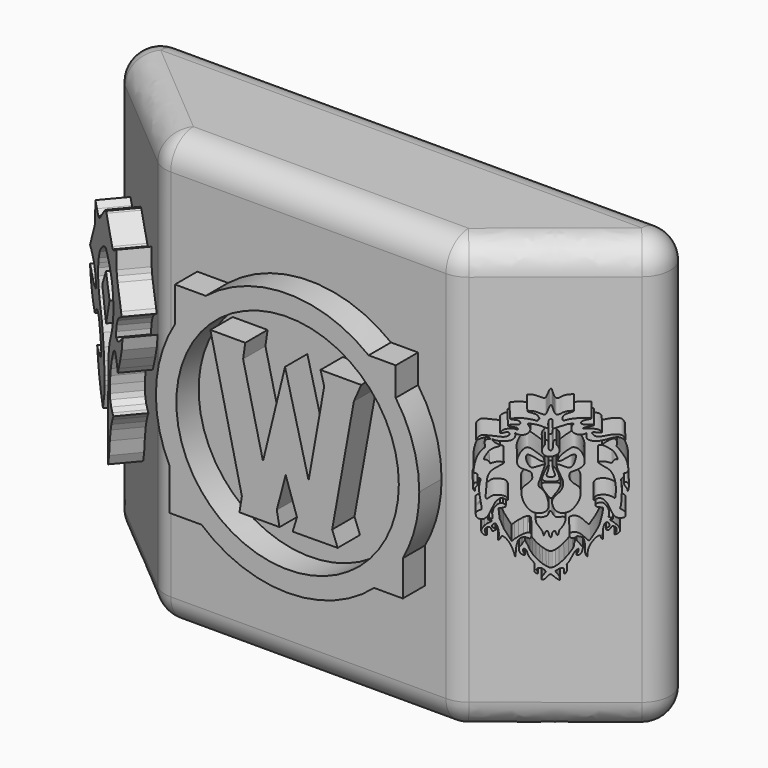
from build123d import *

# Parameters (mm, degrees)
F0_W      = 114.431835711
F0_H      = 77.3337706923
F2_W      = 52.9708638787
F2_H      = 77.1492049098
F4_R      = 5.08
F8_DEPTH  = 5
F9_DEPTH  = 5
F5_R      = 19.9358056333
F10_DEPTH = 5


with BuildPart() as f3:
    # F0 (on Front) → F3 section 0
    with BuildSketch(Plane.XZ):
        with Locations((10.8894817531, -0.9228363633)):
            Rectangle(F0_W, F0_H)
    # F2 (on offset) → F3 section 1
    with BuildSketch(Plane.XZ.offset(25.4)):
        with Locations((10.256677866, -0.830553472)):
            Rectangle(F2_W, F2_H)
    loft()

    # F4
    f4_edges = [f3.edges().sort_by_distance(p)[0] for p in [
        (-16.228754, -25.4, -0.830553),
        (36.74211, -25.4, -0.830553),
        (10.256678, -25.4, 37.744049),
        (-31.277595, -12.7, 37.744049),
        (52.423755, -12.7, 37.744049),
        (-31.277595, -12.7, -39.497439),
        (10.256678, -25.4, -39.405156),
        (52.423755, -12.7, -39.497439),
        (68.1054, 0, -0.922836),
        (-46.326436, 0, -0.922836),
        (10.889482, 0, 37.744049),
        (10.889482, 0, -39.589722),
    ]]
    fillet(f4_edges, radius=F4_R)

    # F6 (on face) → F8 (join)
    with BuildSketch(Plane(origin=(26.9759635426, -33.3092504846, 0), x_dir=(0.7771155597, 0.6293579322, 0), z_dir=(0.6293579322, -0.7771155597, 0))):
        Polygon((20.7611396909, -5.995107349), (20.3351918608, -6.3771121204), (19.2283522338, -4.3969764374), (18.6586063355, -2.8413103428), (18.474675715, -1.1725849472), (18.909919224, -1.1246114406), (19.4580610842, -0.9667126578), (19.5177346468, -0.6027857889), (19.0950985998, -0.3897678107), (18.6713673174, -0.3876143019), (18.3044187725, -0.5774495075), (17.8004521877, -1.1883284897), (17.603661865, -1.9924684893), (17.6380947232, -2.7786137071), (17.1567779034, -2.737827599), (17.021259293, -2.8713289648), (17.0854665339, -3.0016915407), (17.3315778375, -3.0257394537), (17.4002591521, -3.0257394537), (17.5030361861, -3.0893029179), (17.4965392798, -3.237450961), (17.2610804439, -3.3673378639), (16.9510357082, -3.5253416281), (16.54275693, -3.853824921), (16.173703596, -4.3477863073), (16.0572491586, -4.7176475637), (16.1132980138, -4.9516027793), (16.2667483091, -5.1746545359), (16.5006350726, -5.3468211554), (16.8551858515, -5.4398113862), (16.735970974, -5.2397311665), (16.6000239551, -4.9540763721), (16.5556967258, -4.6688872389), (16.5857486427, -4.3954742141), (16.7584568262, -4.219674971), (16.9248394668, -4.1578286327), (17.2169934958, -4.1578286327), (17.3598565161, -4.1942349635), (17.4617711455, -4.4170245528), (17.5465345383, -4.634027835), (17.6374148577, -4.7769714147), (17.7978985012, -4.7492906451), (17.9531574249, -4.6246959828), (18.1308779866, -4.5857043006), (18.0631410331, -4.3972837739), (17.8917981684, -4.3109240942), (17.6748000085, -4.1958354414), (17.5724383444, -4.0585324168), (17.5675693899, -3.8932287134), (17.7865289152, -3.6321748048), (17.9414004087, -3.5816684831), (18.1072540581, -3.6224061623), (18.2777363807, -3.8740409072), (18.4186697006, -4.3022031896), (18.529754132, -4.9638836645), (18.529754132, -5.5337673984), (18.4958148748, -5.983882118), (18.4490270913, -6.1717205681), (18.6442807317, -6.0644266196), (18.7193714082, -5.9394240379), (18.8178159297, -5.7290513068), (18.9445037395, -5.5929124355), (19.0535411239, -5.5478718132), (19.2875154316, -5.7029416785), (19.5177923888, -5.9184189886), (19.8498219252, -6.3423234969), (20.0887173414, -6.7529594526), (20.2891062945, -7.1538039483), (20.5203648657, -7.7979001217), (20.6783562899, -8.3168782294), (20.8200644702, -8.8773556054), (20.8806749433, -8.3466945216), (20.9832713008, -7.1573322639), (21.2030988187, -6.2916255556), (21.5039048344, -5.9221154079), (21.7102132738, -5.8016167022), (21.9001378864, -5.7418085635), (22.1604704857, -5.7399328798), (22.3851967603, -5.7858554646), (22.6835403591, -5.8897272684), (22.8405017406, -5.9896819293), (22.8568650782, -5.9321899898), (22.914879024, -5.9004989453), (23.0402033776, -5.9043345973), (23.0839569122, -5.5239219218), (23.0915341526, -5.3032562137), (23.0121742934, -5.1141348667), (22.874545306, -5.0046825781), (22.5499588996, -5.0030332059), (21.9832602888, -5.2080629393), (21.2804935873, -5.6235091761), align=None)
        with BuildLine():
            Line((21.5737782419, -7.0940363221), (21.3504396379, -7.2150365449))
            add(Edge.make_bspline(
                [(24.7223954648, -10.7734398916), (24.6168900712, -10.6946010136), (24.3911928524, -10.5259488254), (23.6660455899, -10.7012880139), (23.9768249958, -11.2156703735), (24.052176036, -11.5526045592), (23.6003214163, -11.4239301765), (23.4659561404, -11.0204211407), (23.5949462892, -10.2801626293), (23.4806761126, -9.709458317), (22.9343445988, -9.1358550684), (22.6199248699, -8.6486198622), (22.485814449, -8.0145930594), (22.3505252853, -7.7416313263), (21.9792445549, -7.4272647127), (21.8090911396, -7.854522319), (22.0638541945, -8.2023605896), (22.2666757005, -8.7385085953), (21.6558850916, -8.4156581674), (21.3501720824, -8.059989626), (21.3503430659, -7.520015508), (21.3504396379, -7.2150365449)],
                knots=[0, 0, 0, 0, 0.0490193792, 0.1048622934, 0.1578901702, 0.1951364908, 0.2380514586, 0.2865236244, 0.3521649362, 0.4101756562, 0.4767873802, 0.5362432707, 0.5961525704, 0.6403002815, 0.6859059579, 0.727072963, 0.780158007, 0.8254537557, 0.8770271622, 0.9305445811, 1, 1, 1, 1], degree=3))
            Line((24.7223954648, -10.7734398916), (24.9640569091, -10.9678898007))
            Line((24.9640569091, -10.9678898007), (25.1143109053, -11.2403705716))
            Line((25.1143109053, -11.2403705716), (24.8944330961, -11.5230474621))
            Line((24.8944330961, -11.5230474621), (24.6318057179, -11.8598500267))
            Line((24.6318057179, -11.8598500267), (24.5211292058, -12.1430819854))
            Line((24.5211292058, -12.1430819854), (24.4951378554, -12.4750500545))
            Line((24.4951378554, -12.4750500545), (24.7318334877, -12.4581381679))
            Line((24.7318334877, -12.4581381679), (25.0360146165, -12.2966533527))
            Line((25.0360146165, -12.2966533527), (25.2985153347, -11.9840027764))
            Line((25.2985153347, -11.9840027764), (25.566926226, -11.7015726864))
            Line((25.566926226, -11.7015726864), (25.8283298463, -11.6002522409))
            Line((25.8283298463, -11.6002522409), (26.2028928846, -11.9040645659))
            Line((26.2028928846, -11.9040645659), (26.516854763, -12.1954921633))
            Line((26.516854763, -12.1954921633), (26.7887599766, -12.4082099646))
            Line((26.7887599766, -12.4082099646), (27.0851477981, -12.5787854195))
            Line((27.0851477981, -12.5787854195), (27.0684845746, -12.2828297317))
            Line((27.0684845746, -12.2828297317), (27.0392522216, -12.0713450015))
            Line((27.0392522216, -12.0713450015), (26.9554145634, -11.8595836684))
            Line((26.9554145634, -11.8595836684), (26.7687607557, -11.586916633))
            Line((26.7687607557, -11.586916633), (26.5396069735, -11.3200722262))
            Line((26.5396069735, -11.3200722262), (26.4499019831, -11.0720517114))
            Line((26.4499019831, -11.0720517114), (27.0646158606, -10.6947710738))
            Line((27.0646158606, -10.6947710738), (27.3196380585, -10.6537993997))
            Line((27.3196380585, -10.6537993997), (27.5259036571, -10.654848069))
            Line((27.5259036571, -10.654848069), (27.6770684868, -10.7522271574))
            Line((27.6770684868, -10.7522271574), (27.657173574, -11.0781872645))
            Line((27.657173574, -11.0781872645), (27.6311151683, -11.4222308621))
            Line((27.6311151683, -11.4222308621), (27.739752084, -11.5314703435))
            Line((27.739752084, -11.5314703435), (27.8919860721, -11.4235561341))
            Line((27.8919860721, -11.4235561341), (27.9900562018, -11.2308338284))
            Line((27.9900562018, -11.2308338284), (28.0887875706, -10.9113119543))
            Line((28.0887875706, -10.9113119543), (28.0973985791, -10.4222632945))
            Line((28.0973985791, -10.4222632945), (28.0267000198, -10.0173465908))
            Line((28.0267000198, -10.0173465908), (28.1730592251, -9.8731750622))
            Line((28.1730592251, -9.8731750622), (28.3686034381, -9.6024507657))
            Line((28.3686034381, -9.6024507657), (28.6444313824, -9.0604163706))
            Line((28.6444313824, -9.0604163706), (28.8469269872, -8.6206588894))
            Line((28.8469269872, -8.6206588894), (29.0797557682, -8.1810550764))
            Line((29.0797557682, -8.1810550764), (29.366992414, -7.7779577114))
            Line((29.366992414, -7.7779577114), (29.7017619014, -7.5683230534))
            Line((29.7017619014, -7.5683230534), (29.7001861036, -7.8702233732))
            Line((29.7001861036, -7.8702233732), (29.6324174851, -8.069138974))
            Line((29.6324174851, -8.069138974), (29.5221507549, -8.2738762721))
            Line((29.5221507549, -8.2738762721), (29.4424034655, -8.4425397217))
            Line((29.4424034655, -8.4425397217), (29.4111613184, -8.6174886674))
            Line((29.4111613184, -8.6174886674), (29.5749921352, -8.6122835055))
            Line((29.5749921352, -8.6122835055), (29.8180729151, -8.535021916))
            Line((29.8180729151, -8.535021916), (29.9949105829, -8.3608133718))
            Line((29.9949105829, -8.3608133718), (30.1601588726, -8.0838976428))
            Line((30.1601588726, -8.0838976428), (30.2530433983, -7.7220792882))
            Line((30.2530433983, -7.7220792882), (30.3094070405, -7.3842280544))
            Line((30.3094070405, -7.3842280544), (29.4174645096, -6.2384800985))
            Line((29.4174645096, -6.2384800985), (29.216889292, -6.3099185936))
            Line((29.216889292, -6.3099185936), (29.1432403028, -6.4725750126))
            Line((29.1432403028, -6.4725750126), (29.0565155447, -6.8163103424))
            Line((29.0565155447, -6.8163103424), (29.0239844471, -7.2388169356))
            Line((29.0239844471, -7.2388169356), (28.8217123598, -7.6363082044))
            Line((28.8217123598, -7.6363082044), (28.2957982272, -8.4367133677))
            Line((28.2957982272, -8.4367133677), (27.6362635195, -9.2666288838))
            Line((27.6362635195, -9.2666288838), (26.9593447447, -9.9394638091))
            Line((26.9593447447, -9.9394638091), (26.4598596841, -10.3233689442))
            Line((26.4598596841, -10.3233689442), (25.9918496013, -10.548453778))
            Line((25.9918496013, -10.548453778), (25.7190372795, -10.548453778))
            Line((25.7190372795, -10.548453778), (25.4921000451, -10.4884952307))
            Line((25.4921000451, -10.4884952307), (25.1748748124, -10.31046547))
            Line((25.1748748124, -10.31046547), (24.6586184949, -9.9504832178))
            Line((24.6586184949, -9.9504832178), (24.2695435882, -9.6047185361))
            Line((24.2695435882, -9.6047185361), (23.7225349993, -9.0410225093))
            Line((23.7225349993, -9.0410225093), (23.2305731624, -8.3780884743))
            Line((23.2305731624, -8.3780884743), (22.9198671877, -7.8201172873))
            Line((22.9198671877, -7.8201172873), (22.4977098405, -6.8454146385))
            Line((22.4977098405, -6.8454146385), (22.1917349845, -6.251278799))
            Line((22.1917349845, -6.251278799), (21.890219301, -6.5482989885))
            Line((21.890219301, -6.5482989885), (21.7246972024, -6.9138626568))
            Line((21.7246972024, -6.9138626568), (21.5737782419, -7.0940363221))
        make_face()
        with BuildLine():
            add(Edge.make_bspline(
                [(28.4584052861, -5.7068751194), (28.377750325, -5.5305402713), (28.3970170691, -5.053848014), (28.5455695458, -5.1154080801), (28.7244613771, -5.0059083514), (29.1029018571, -4.8959251511), (29.7866295804, -5.079421887), (30.4086441719, -5.6015299038), (31.1504811777, -6.4400123588), (31.2814641923, -6.1903200986), (32.2927988884, -4.6256838388), (32.7634170238, -3.4890507073), (33.21995984, -1.080539961), (32.9924765996, -1.1142133697), (32.4033558546, -1.0362217896), (32.1736239082, -0.9752805604), (31.9346512073, -0.7458412884), (32.3686573738, -0.324382919), (32.8231061384, -0.2911583319), (33.3329101782, -0.3996285271), (33.8711377604, -1.2133083902), (33.9677572513, -1.779289243), (33.9930088927, -2.2519747748), (33.8045681793, -2.6290596973), (34.2540761198, -2.6866274586), (34.5533784934, -2.6655531557), (34.5110387027, -2.9432238344), (34.2477087929, -2.9323859941), (33.9819983346, -3.0668054708), (34.4524445711, -3.2642064249), (35.0237778585, -3.7816897762), (35.5041234431, -4.3618329136), (35.5318289293, -4.8409533706), (35.3211733998, -5.1049054818), (34.9694700837, -5.3043141417), (34.5665096849, -5.4349358247), (34.9657989777, -5.0692689559), (35.0084374135, -4.7217928088), (35.041995149, -4.2563131428), (34.6481694109, -4.0460841582), (34.3330402001, -3.9973850004), (34.0396380847, -4.6757306882), (33.7604560393, -4.67258721), (33.5364970003, -4.63941233), (33.4680769956, -4.3017816168), (33.9734588741, -4.1865254407), (33.9925272047, -3.9737458819), (34.0149502201, -3.5933459741), (33.467123555, -3.2458480586), (33.0027191014, -4.3906738507), (33.072121816, -5.9991929185), (33.1067298335, -6.1208897989), (32.8398801438, -5.9378628355), (32.8224834232, -5.8274219137), (32.7732896735, -5.57938941), (32.5535960727, -5.3953923777), (31.7600180446, -6.1713159234), (31.2228509548, -7.0500357834), (30.8759248328, -8.0687083009), (31.0147289259, -9.1558277984), (30.5623128158, -8.3324300675), (30.5633726897, -7.6038510496), (30.5814650496, -6.7627821279), (30.4758500149, -6.2515752988), (30.3182145293, -5.7385409431), (29.7716226358, -5.6573294845), (29.3896455754, -5.5767936283), (29.1058088679, -5.9770299872), (28.7559436314, -5.9122260959), (28.5214662666, -5.8447444863), (28.4584052861, -5.7068751194)],
                knots=[0, 0, 0, 0, 0.0165686754, 0.0228962673, 0.0323032544, 0.0455826478, 0.0630019033, 0.0836714818, 0.1047482051, 0.1129632567, 0.141104017, 0.1688309342, 0.200090771, 0.2072199554, 0.223717053, 0.2348353577, 0.2450767774, 0.2601625546, 0.2746874052, 0.2896467614, 0.3103439345, 0.326898953, 0.3416945503, 0.3535619296, 0.3664846056, 0.3774214908, 0.3861752715, 0.3970499, 0.4061802198, 0.4189472816, 0.438684981, 0.4572979497, 0.471277241, 0.4832105507, 0.497655939, 0.5080786066, 0.5206902948, 0.5342121341, 0.5480603189, 0.5615726061, 0.5726057181, 0.5899432651, 0.6005926295, 0.610158847, 0.6205332005, 0.634670451, 0.6439349866, 0.6567632078, 0.6703817333, 0.6927175518, 0.7202184154, 0.7244610032, 0.7354365823, 0.7431931664, 0.7536677863, 0.7628869829, 0.7840623928, 0.8067922588, 0.8300088018, 0.8475818306, 0.8631963651, 0.8828261068, 0.9023231785, 0.9180390576, 0.9327955923, 0.9481049052, 0.9610632871, 0.9748734994, 0.9870455964, 1, 1, 1, 1], degree=3))
        make_face()
        with BuildLine():
            add(Edge.make_bspline(
                [(31.8106152117, 0.0906741188), (31.8677294098, 0.0377733775), (32.3715386648, 0.4334295794), (33.0193096024, 0.3678161349), (33.7048489738, -0.2818677967), (34.1228305174, -1.4000696051), (34.5315734261, -2.2875949156), (34.9071760224, -2.6276952389), (35.3257095158, -2.7968215847), (35.6410457523, -2.773565654), (36.2761240557, -2.686122703), (36.2822741891, -2.1034975826), (36.3116210251, -1.6983544511), (35.3759851397, -1.2606782118), (35.6070636172, -1.0910575991), (35.7682180179, 0.7476000624), (35.7737121106, 2.0159466638), (35.6083110163, 3.3925437897), (35.6903335856, 3.4261151998), (35.9235940707, 3.6247343578), (36.0761119975, 3.8537466705), (35.9634606962, 4.3304450793), (36.1327294995, 4.2646032492), (36.4179603205, 4.4143364454), (36.7463529565, 4.5831159539), (36.5205049565, 6.0748705815), (36.1776042408, 6.9182118234), (35.2333382461, 8.3540355807), (34.9025971947, 8.5694320472), (35.1089652282, 8.7254789317), (35.0849045504, 9.698540019), (34.2697898487, 9.901963004), (32.784500302, 8.6889636089), (33.0660016893, 8.7809470465), (33.6573108961, 8.4322397553), (34.2244474619, 8.1190062693), (34.6895542464, 7.6410901572), (34.9797646933, 7.1364860371), (35.2142013983, 6.4454516721), (35.0463665605, 6.4901294593), (34.8013964559, 6.5176111099), (34.6112545544, 6.3301149963), (34.417057236, 6.0297307677), (34.3058027851, 5.8945841416), (33.9604528581, 6.0069513503), (33.1935181545, 6.2222042763), (32.7290874714, 6.1607426438), (32.2922582559, 6.0500159407), (32.746797366, 5.7234267584), (33.1843529115, 5.3981793027), (33.793262408, 5.0660895495), (34.3431081456, 4.4896449964), (34.740093925, 3.523336511), (34.9802520056, 2.1850152553), (34.8411237419, 0.1810858328), (34.696673055, 0.4340492951), (34.2181273341, 0.7468569831), (33.3018075411, 0.9910206696), (32.5450026016, 0.8843436677), (32.0112061871, 0.735239796), (31.7538476013, 0.1432538412), (31.8106152117, 0.0906741188)],
                knots=[0, 0, 0, 0, 0.0168760247, 0.0348415813, 0.0558009789, 0.0806179774, 0.1026095851, 0.1182321843, 0.1326165415, 0.1455386946, 0.1620382004, 0.1776245505, 0.1917149747, 0.2123649385, 0.2208332372, 0.2500126602, 0.2784786967, 0.3027922577, 0.3082531781, 0.3200908531, 0.3324290783, 0.3463238359, 0.3532943972, 0.3657615764, 0.3780871018, 0.4038898163, 0.427497913, 0.4564255801, 0.4682949217, 0.4775811902, 0.4978262904, 0.5166194053, 0.5450868024, 0.5512257429, 0.5695589236, 0.5883139434, 0.6060107488, 0.6242385878, 0.6414358426, 0.6479878474, 0.6588291391, 0.6702603123, 0.6837039834, 0.6921353258, 0.7047999113, 0.7249285088, 0.7410456273, 0.752794621, 0.7666553533, 0.7840408416, 0.8024562511, 0.8221277595, 0.8442193669, 0.872566147, 0.9013790546, 0.9080324771, 0.924794542, 0.9468684732, 0.9662441137, 0.9832263845, 1, 1, 1, 1], degree=3))
        make_face()
        with BuildLine():
            add(Edge.make_bspline(
                [(36.5336947143, 1.5074906405), (36.5495996585, 1.4941972712), (36.6557934065, 1.582665535), (36.7077033127, 2.0008501635), (36.7640155859, 2.4451008897), (36.5783333049, 2.8472220411), (36.1475538171, 2.9640772866), (36.0191665177, 2.6428874093), (36.1019939166, 2.438739037), (36.2242739622, 2.2160062421), (36.3753732367, 2.020047451), (36.5549085136, 1.8022342285), (36.5078591351, 1.5290840451), (36.5336947143, 1.5074906405)],
                knots=[0, 0, 0, 0, 0.0528325972, 0.1634728896, 0.2788341616, 0.3873398398, 0.4875628309, 0.5747932995, 0.6537001878, 0.7382822254, 0.8225612538, 0.9141800983, 1, 1, 1, 1], degree=3))
        make_face()
        with BuildLine():
            add(Edge.make_bspline(
                [(16.6727881879, -2.6792155113), (16.7358452311, -2.6226424401), (17.0408530506, -2.4555387666), (17.5769785847, -1.1090933296), (18.0651053401, -0.0579671151), (18.2036225536, -0.0164800549), (18.6202682731, 0.3934870933), (19.1315263192, 0.5503930241), (19.921700756, -0.1303383101), (19.731700077, 0.4836722545), (19.3637037388, 0.8293239337), (18.4259538162, 0.9470734213), (17.5024193541, 0.9491090243), (16.5207648227, -0.2348567173), (16.784053676, 2.3545536381), (16.8276967325, 3.4353111689), (17.1884157367, 4.6266635036), (18.1804371096, 5.2868124335), (18.9576074038, 5.7387874383), (19.3532277868, 6.0220667523), (18.7935502408, 6.2040904371), (18.28164461, 6.276522665), (17.1633237931, 5.8094969868), (17.3493911933, 6.0767589141), (16.7526766251, 6.6055682264), (16.2562307216, 6.4391452905), (16.9985837855, 7.8130284993), (17.6925946811, 8.394513849), (19.2647137831, 8.7218625365), (17.6777390481, 9.194006775), (17.5956400173, 9.8666701568), (17.8562203869, 9.5654779402), (18.5439197238, 9.4130306403), (19.7811499612, 9.3571423346), (20.6784090522, 9.6799849692), (20.91080828, 10.3233035796), (20.7416723289, 10.8109337194), (21.0766025813, 10.4796326525), (21.6058877904, 10.3387040816), (22.165434798, 10.390179883), (22.609666742, 10.5752174234), (22.8451670065, 10.936979752), (22.9988888882, 11.3153897698), (22.8204961689, 11.6939370928), (22.6327130366, 11.9218153472), (22.6061434743, 12.2689399419), (23.3056603863, 12.0631536888), (24.1840885165, 11.9735940295), (25.6276903463, 11.1787087784), (25.4006522526, 11.7955140437), (25.4545244667, 12.5067417488), (25.6051701888, 12.8571534113), (25.9721271515, 12.9422118738), (26.12482889, 12.5624028479), (25.968073569, 11.2497030529), (26.4075055255, 11.4828274091), (27.8022700841, 11.9578922743), (28.2860646796, 12.1179614279), (29.1879639956, 12.1506314854), (28.7552081739, 11.9550625095), (28.6837937893, 11.4144629828), (28.6677395243, 11.0303446789), (29.1802080246, 10.4508980078), (30.0436976375, 10.3295556325), (30.7174156513, 10.5360505462), (30.8684821043, 10.7927630941), (30.596141503, 9.734668756), (31.6176043843, 9.3286301451), (32.9756064865, 9.3992673755), (34.1973428163, 9.855854115), (34.9987685551, 10.0204383827), (35.6845530999, 9.9435855572), (36.3748069885, 9.3119085724), (36.0547439486, 10.0520767359), (35.6609665569, 10.4410239876), (34.3243137503, 10.4556868897), (33.1354355302, 10.1053181314), (32.0096054189, 10.0397436079), (31.7287703647, 10.4226692338), (31.4382411857, 10.6811127065), (31.7429575476, 10.8045559172), (32.1457932997, 10.7519787258), (32.7251753381, 10.7002619708), (33.0545977025, 10.7299997251), (32.7102358787, 11.1183579492), (32.1962147794, 11.2972668107), (31.2910633891, 11.3849741765), (30.1234196813, 11.3053896011), (30.5171003399, 11.5565117711), (31.130907813, 11.6641853114), (31.5482495457, 11.7502710042), (31.9684489177, 11.8793568935), (31.6759344532, 12.0081579422), (31.2922787782, 11.9859567565), (30.4431175671, 11.8966611143), (29.8987759846, 12.2191776517), (30.2675830002, 12.605616145), (30.829413577, 12.7726552889), (31.3004897942, 12.8356219516), (31.640428972, 12.9811471904), (30.9922024672, 13.0750420225), (29.6517223057, 13.0066868914), (28.2974173857, 12.885474958), (27.3323684579, 12.452446182), (27.4337573085, 13.374705529), (28.0306820086, 13.7506057329), (28.5979263141, 13.8735373419), (29.2439802714, 14.2249386269), (28.5761250797, 14.1495231618), (27.5620005777, 14.0781578484), (26.6640343245, 13.2743652977), (26.0952170009, 14.1970154929), (26.0002557266, 15.2194379237), (25.5714755099, 14.8971921525), (25.2585506487, 13.8442148202), (24.9502558981, 13.4496311), (23.8709234833, 13.9940629808), (23.3392792426, 14.1535867919), (22.2354353391, 14.1813491503), (22.966693643, 13.8817413529), (23.7066370668, 13.6918053333), (24.09728958, 13.314992993), (24.2810663015, 12.7413688971), (24.0512776087, 12.9566253669), (24.0318274961, 12.4735312685), (23.5131277602, 12.7636045101), (22.1182801112, 13.0038193385), (21.3176807744, 13.0887420129), (19.5081459231, 12.9151551653), (20.9774611078, 12.7290062138), (21.3506779224, 12.6623888024), (21.6498646194, 12.1597786723), (21.25439673, 11.9837801298), (20.8443417833, 12.0115388305), (20.2190156833, 12.0566625847), (19.5574120677, 11.8368934762), (20.3919515449, 11.6308655416), (21.032080169, 11.5804985305), (21.2081276161, 11.3895767461), (21.2533321711, 11.1112154016), (20.748658916, 11.4198973529), (19.7969955044, 11.4009531092), (19.1861114571, 11.2752548491), (18.4242968342, 10.5592735125), (19.3885488752, 10.7641849722), (19.7583223601, 10.9004835566), (20.0318849113, 10.6963168233), (20.0768607927, 10.3986548057), (19.6864611097, 10.1598357768), (19.1352335686, 10.0278232111), (18.1685309426, 10.2023665369), (16.9876044187, 10.367424987), (16.3612286142, 10.4169417797), (15.7718286122, 10.3304160566), (15.1074170583, 9.4242885576), (15.9377265301, 9.8313146389), (16.3468303009, 9.964794374), (16.7772396286, 10.0921000904), (17.1213616825, 10.018118273), (17.5325613686, 9.7141392211), (17.0607095079, 9.7555680724), (16.7349884135, 9.6788874714), (16.4330570298, 9.2105442672), (16.7450482231, 8.4719665916), (16.1297013938, 8.1621225856), (15.1882179439, 6.7304148265), (14.9126815598, 4.5349052517), (15.1051467356, 4.3764978688), (15.4038895119, 4.3605821246), (15.6323928322, 4.0895708728), (15.486237206, 3.4554171774), (15.7608030697, 3.6234914534), (16.0811077445, 3.4997274225), (15.8272004601, 2.9155920658), (15.6355929863, 1.4138761265), (16.2814794241, -1.4127119869), (15.9151860902, -1.3834867871), (15.3913827101, -1.6835357548), (15.2882047231, -1.8438685795), (15.2745576389, -2.3760191476), (15.596706575, -2.7726641838), (16.076238085, -2.9434641312), (16.5599210146, -2.8246308052), (16.6289018709, -2.7185891262), (16.6727881879, -2.6792155113)],
                knots=[0, 0, 0, 0, 0.0042486675, 0.0130357095, 0.020507136, 0.0230314059, 0.0282297055, 0.0335001847, 0.0394934821, 0.043556242, 0.0486884403, 0.0554542244, 0.0624988579, 0.0688969692, 0.078536871, 0.0867509278, 0.0942526145, 0.1019755262, 0.1089138686, 0.112781053, 0.1172342816, 0.1230307538, 0.1300200633, 0.1324045705, 0.1384694624, 0.1421791735, 0.1499130858, 0.1576221499, 0.1643856522, 0.1718224536, 0.1764583686, 0.1796727188, 0.1856766956, 0.1937093442, 0.2004363881, 0.2061320793, 0.2101150323, 0.213850523, 0.2192840453, 0.2246088735, 0.2294274475, 0.2340262556, 0.2384493026, 0.2428903203, 0.2468619331, 0.2501181385, 0.2553357245, 0.2628045994, 0.2707847983, 0.2749131892, 0.2811290291, 0.2853863037, 0.2890812538, 0.2933646219, 0.3009556834, 0.3046239245, 0.3132470042, 0.3191366464, 0.3246286243, 0.3279868663, 0.3332097771, 0.3375827636, 0.3434678832, 0.3501728727, 0.35607883, 0.3583327606, 0.3644449882, 0.3712838023, 0.3796912058, 0.3878213934, 0.3941495586, 0.4002360498, 0.4056391323, 0.4104492159, 0.4158438251, 0.4237595207, 0.4320347197, 0.4392140393, 0.4439891476, 0.4477675388, 0.4510074154, 0.4557140721, 0.4613149763, 0.4644642897, 0.4687448817, 0.474042542, 0.4812867707, 0.487942975, 0.4911849028, 0.4969702055, 0.5019756132, 0.5058054271, 0.508762271, 0.5133448161, 0.5200283587, 0.5248593552, 0.5292340271, 0.5348026389, 0.5399191612, 0.5430754383, 0.5476152941, 0.5561570543, 0.5648318109, 0.5709243489, 0.5764125452, 0.5822837491, 0.5880874314, 0.5928988508, 0.5972241309, 0.6047954667, 0.6117255742, 0.6183541692, 0.6249240665, 0.6287487675, 0.6363362519, 0.6408115826, 0.6480866362, 0.6542112552, 0.660171117, 0.6647950403, 0.6713199425, 0.6767658364, 0.681255846, 0.6836107604, 0.6873481609, 0.691961878, 0.7003851837, 0.7077279707, 0.7150751148, 0.7215879116, 0.7265467416, 0.7311627058, 0.735128404, 0.7397531488, 0.7456801502, 0.750182904, 0.7556060312, 0.7615867521, 0.7650227336, 0.7677997838, 0.7724316285, 0.7794534184, 0.785492568, 0.7910665166, 0.7966735763, 0.8014145066, 0.8051687246, 0.8086617376, 0.8131510475, 0.8184559135, 0.8255496407, 0.8333753601, 0.838940103, 0.844549118, 0.8504654072, 0.8556779357, 0.8608225489, 0.8653781535, 0.8698030323, 0.8737942503, 0.8776149386, 0.881856535, 0.8868027606, 0.8926144157, 0.8977670457, 0.9073319089, 0.9176235063, 0.9205044714, 0.9241642563, 0.9282754017, 0.9332507252, 0.9362878684, 0.9398211263, 0.9446744035, 0.954031444, 0.9655585258, 0.968746022, 0.9741501716, 0.9772874036, 0.9822222355, 0.9872069757, 0.9922376837, 0.9970430208, 1, 1, 1, 1], degree=3))
        make_face()
        with BuildLine():
            add(Edge.make_bspline(
                [(15.1917822659, 1.4932253398), (15.217055329, 1.5008794027), (15.1198653586, 1.8012330088), (15.1686632104, 2.1070216176), (15.5235371199, 2.3337028376), (15.6513056226, 2.8031387346), (15.2241187579, 2.988712841), (15.0395810967, 2.7119111674), (14.8967009107, 2.2491347586), (14.8717310648, 1.8924576625), (15.1598915183, 1.4835670808), (15.1917822659, 1.4932253398)],
                knots=[0, 0, 0, 0, 0.0960995283, 0.2001346847, 0.3165910606, 0.4324320095, 0.537828798, 0.6345960656, 0.7613818184, 0.8787370653, 1, 1, 1, 1], degree=3))
        make_face()
        with BuildLine():
            add(Edge.make_bspline(
                [(25.8847437799, 7.908844389), (25.949597419, 7.9474978902), (26.0887522522, 8.1635021947), (26.109990382, 8.6558080458), (26.1503242446, 9.193888796), (26.1596103775, 9.5433043359), (26.5110044604, 9.6011069398), (26.6563402777, 9.294532419), (26.6147555412, 8.908020195), (26.6118716655, 8.7168703323), (26.8853457178, 8.5128107084), (27.0715998464, 8.0745255378), (27.0450487488, 7.6871031681), (26.7692153046, 7.2999195987), (26.1568307552, 6.9818028064), (25.6318837694, 6.8858604951), (25.0714896164, 7.0244949508), (24.6757106738, 7.3334357667), (24.5151942089, 7.8950047479), (24.6446827241, 8.4704505537), (25.0883283458, 8.790284386), (24.9394375787, 9.6576761289), (25.1905548786, 9.5279247159), (25.3465715859, 9.5286089322), (25.5371237324, 9.1893756283), (25.4630753151, 8.7416652743), (25.4394482881, 8.1664780754), (25.5963228588, 7.9987853003), (25.7406732672, 7.8803385345), (25.8402843734, 7.8823460807), (25.8847437799, 7.908844389)],
                knots=[0, 0, 0, 0, 0.0313205602, 0.0727207986, 0.1163267472, 0.1481492536, 0.1772791582, 0.2087572933, 0.2451039265, 0.2691431715, 0.3015979702, 0.3414176355, 0.3766282373, 0.4156074493, 0.4634582024, 0.5059898029, 0.5491426609, 0.5893065335, 0.6325979642, 0.6755363737, 0.7181240075, 0.7658922403, 0.7879868399, 0.8106045393, 0.8438174768, 0.8842889788, 0.9274868895, 0.9542718634, 0.9785286757, 1, 1, 1, 1], degree=3))
        make_face()
        with BuildLine():
            add(Edge.make_bspline(
                [(24.8940810561, 6.4037991688), (24.8653735082, 6.5416808395), (24.7811950088, 6.8756844417), (24.3273489423, 7.1920151092), (23.5657524063, 7.8291234291), (23.0244173218, 8.290495575), (22.6808940523, 8.416358083), (22.3326297756, 8.4581076728), (21.8779279756, 8.0798467601), (21.3922954451, 7.4370438795), (20.9707327421, 6.2683555797), (21.1384896229, 5.6703370544), (21.4877580586, 5.1583498619), (22.3607868441, 4.8440689009), (23.1986174468, 4.4878315952), (23.159227775, 3.9680321649), (23.2788365696, 3.596555911), (22.9336306978, 2.9753593964), (22.1942189122, 2.4749424461), (21.6015634821, 1.8328989846), (21.7056746035, 0.6353474728), (22.1182247371, -0.5755800817), (22.7993199349, -1.4863399269), (23.3622660259, -1.8515472085), (24.1059369403, -2.0481060946), (24.8735511908, -1.8767970299), (25.4440029655, -1.4328892156), (25.5473657471, -0.591169728), (25.3203077642, 0.6182604289), (24.7542636049, 1.7812609431), (23.8326243162, 2.3089690635), (24.4502875211, 3.6039427672), (24.8428857047, 5.2581736391), (25.0168272496, 5.7323216729), (24.6572445294, 5.682290934), (23.7280151369, 5.3529000403), (23.0789853224, 5.1046224678), (22.5637943933, 5.7704927115), (22.2686822841, 6.6656834995), (22.3986617814, 7.3914103479), (23.0208854552, 7.141653635), (23.3808341452, 6.9597093998), (24.098284292, 6.4340701133), (24.3975626766, 6.2610539691), (24.9486897129, 6.1028759631), (24.913912899, 6.3085472984), (24.8940810561, 6.4037991688)],
                knots=[0, 0, 0, 0, 0.0180107145, 0.0377974437, 0.064974321, 0.0877443578, 0.1035407197, 0.11857518, 0.1382883496, 0.1630774277, 0.1926517224, 0.2132590143, 0.2334809213, 0.2597547873, 0.2843490684, 0.3020394321, 0.3183295123, 0.3399582195, 0.3656484188, 0.3898554544, 0.4183712926, 0.4493511274, 0.4775892373, 0.4993235639, 0.5224361179, 0.5460533177, 0.5678641182, 0.5916535978, 0.6217478687, 0.6523424857, 0.6769744717, 0.7073572229, 0.7436461701, 0.7592929814, 0.7722597881, 0.7996931489, 0.8209857943, 0.8437456976, 0.8707445253, 0.8904591574, 0.909415644, 0.9278647255, 0.9525675385, 0.9699292435, 0.9875577788, 1, 1, 1, 1], degree=3))
        make_face()
        with BuildLine():
            add(Edge.make_bspline(
                [(25.4899449646, 5.6000095792), (25.4357337072, 5.6265734832), (25.1083848613, 5.0133584713), (24.7860572278, 4.232959056), (24.4816106626, 3.4325851233), (24.8979871022, 3.0731232386), (25.437638157, 2.9586904543), (26.1433044837, 2.9960791641), (26.5402614666, 3.0069889837), (27.0971588843, 3.2254253037), (26.9305271239, 4.0482368383), (26.5940715735, 4.9764523904), (26.0278030098, 5.6581438847), (26.079888906, 5.0496462176), (26.2675854708, 4.435718579), (26.575348024, 3.7432444746), (25.6893211191, 3.7370098907), (25.3994127373, 3.7522119673), (25.130269333, 3.9703667829), (25.3917631375, 4.6170611975), (25.489777762, 5.0073704297), (25.540950007, 5.5750167436), (25.4899449646, 5.6000095792)],
                knots=[0, 0, 0, 0, 0.0499856001, 0.1164639453, 0.1735915875, 0.2171902453, 0.2664214836, 0.3213448543, 0.3639299104, 0.4089053395, 0.4645524287, 0.534829806, 0.5848270836, 0.6232438932, 0.6808323756, 0.7288147968, 0.7829540345, 0.8203554906, 0.8535608216, 0.9051600075, 0.952970697, 1, 1, 1, 1], degree=3))
        make_face()
        with BuildLine():
            add(Edge.make_bspline(
                [(25.6913285702, 2.890347736), (25.3448151582, 2.8946458216), (24.9861645296, 2.9149835674), (24.3815955006, 2.6918544403), (24.6354548008, 1.8858640897), (25.1184553893, 1.1804082277), (25.5344993445, 0.5928084363), (25.9752143823, 0.2070076841), (26.4414022891, 1.2444007529), (26.7461479485, 1.4488391079), (27.0667497935, 2.1367266902), (27.3783206393, 2.8966598519), (26.1688941353, 2.8844241046), (25.6913285702, 2.890347736)],
                knots=[0, 0, 0, 0, 0.0944990294, 0.1681849623, 0.2586726926, 0.3622755566, 0.4559212797, 0.5220615842, 0.6267012974, 0.696616863, 0.7908115593, 0.8697612249, 1, 1, 1, 1], degree=3))
        make_face()
        with BuildLine():
            add(Edge.make_bspline(
                [(26.1081345379, -0.8617833373), (26.0659431539, -0.7359235034), (25.9216969606, -0.438607675), (26.0150667053, 0.2510795447), (26.4696124789, 0.8405715138), (27.1272434798, 1.377907881), (27.4938935726, 2.111094189), (27.562117887, 2.8914228417), (27.380343895, 3.5046878084), (27.153269381, 4.0624319231), (26.9137951028, 4.5518462234), (26.7605575851, 4.9553538107), (26.4560515914, 5.9397210101), (27.525792736, 5.4618785253), (28.1337149763, 5.2038044121), (28.622350324, 5.2017480767), (29.0522656147, 5.7010893524), (29.1123203966, 6.1495701232), (29.547598846, 7.3278374403), (28.7317939105, 7.2637922575), (27.9124426397, 6.6790975643), (27.4241437248, 6.380638705), (26.7576652287, 6.0750335391), (26.8550800331, 6.7770871356), (27.5171963102, 7.5220293775), (28.4388351279, 8.1979040115), (28.8736675136, 8.4803891817), (29.4979442607, 8.3417244338), (30.0057822475, 7.9031031053), (30.4906722451, 6.988037198), (30.561408061, 6.2472904805), (30.5157730559, 5.5555169259), (29.6898463763, 4.9220896041), (28.9693306926, 4.6379294399), (28.4792408619, 4.5146278584), (28.2822440077, 3.6851155939), (28.7276831405, 2.8309927678), (29.4610375991, 2.4476419794), (29.79717591, 2.1344096424), (30.0241425532, 1.6145782903), (29.9647272701, 0.328648413), (29.3690241255, -0.7034269447), (28.6957821272, -1.5963473056), (27.9437570172, -1.9178347598), (27.3580454376, -2.0156338269), (26.6587560049, -1.8093986884), (26.1930673802, -1.2348946638), (26.1468424156, -0.9772516293), (26.1081345379, -0.8617833373)],
                knots=[0, 0, 0, 0, 0.0172488413, 0.0382570061, 0.0605558237, 0.0843875957, 0.1076540851, 0.1302998804, 0.1509534765, 0.1711386263, 0.1898155795, 0.2082396321, 0.2294797695, 0.2528367108, 0.2752873093, 0.2923077914, 0.311895428, 0.3308804585, 0.3566858475, 0.3751378552, 0.4015323794, 0.4225465858, 0.4409611555, 0.4580948778, 0.4848619674, 0.5127015267, 0.5308160367, 0.5502698273, 0.571522095, 0.5976763924, 0.6200626089, 0.6407033531, 0.6665429093, 0.6896372613, 0.7068441236, 0.7290259637, 0.754141661, 0.7774424694, 0.7944745352, 0.8132975135, 0.8421779688, 0.8709415436, 0.8980956264, 0.9209991663, 0.9406926813, 0.9624486687, 0.984175299, 1, 1, 1, 1], degree=3))
        make_face()
        with BuildLine():
            add(Edge.make_bspline(
                [(25.6662927568, -1.6099993372), (25.7381662624, -1.5685997614), (25.978105751, -1.7627403521), (26.1277968496, -2.1783642143), (26.340762101, -2.4757647716), (26.6098521514, -2.6567824962), (27.1614515535, -2.5381911754), (27.9602932624, -2.5193941614), (27.8412030615, -3.1906304053), (27.6667569899, -3.7568211188), (27.3052835487, -4.2907421209), (26.9179810772, -4.6521711252), (26.8731602456, -5.605226216), (26.5239041419, -5.2375747925), (26.482063038, -4.8472878246), (26.3468607256, -4.7403361442), (26.0778188791, -4.85721197), (25.9710006303, -5.2267442139), (25.8820428892, -5.9729316441), (25.5435607777, -5.5442389462), (25.5140508839, -4.946706986), (25.3018714525, -4.7230315929), (25.0275469405, -4.8657727003), (24.8143077079, -5.7401147251), (24.717685157, -5.0055910687), (24.4193552931, -4.4243745455), (23.9671374688, -3.8555366068), (23.6667465623, -3.3007797591), (23.6700697756, -2.3895022471), (24.3687355602, -2.704561111), (24.9647155456, -2.5220788415), (25.4977598755, -2.3256153989), (25.5593913565, -1.6715751933), (25.6662927568, -1.6099993372)],
                knots=[0, 0, 0, 0, 0.0253924474, 0.0576848984, 0.085576772, 0.1103987144, 0.1460791776, 0.1835748405, 0.2168269478, 0.2540775393, 0.2906946612, 0.3262129915, 0.3653155376, 0.3897811779, 0.4198321424, 0.436729574, 0.4591844722, 0.489732311, 0.5244625686, 0.5504464628, 0.5879573134, 0.6105244713, 0.6345486304, 0.6709454204, 0.7001862254, 0.7403916695, 0.7796881651, 0.818202305, 0.856017574, 0.8904916557, 0.9278189146, 0.9622324227, 1, 1, 1, 1], degree=3))
        make_face()
    extrude(amount=F8_DEPTH)

    # F7 (on face) → F9 (join)
    with BuildSketch(Plane(origin=(-19.2697462873, -22.8336494698, 0), x_dir=(0.7642278951, -0.6449462957, 0), z_dir=(-0.6449462957, -0.7642278951, 0))):
        Polygon((-12.688360177, 6.3093760982), (-9.9108638242, 1.5670849243), (-7.3930379003, 6.4661819488), (-9.9537111819, 9.811473079), align=None)
        Polygon((-15.7549437135, -5.5359043181), (-16.343858093, -5.1543018781), (-16.0036552697, -6.2452149577), (-15.5133241788, -7.5918552466), (-14.9450358003, -8.9517077431), (-14.425710775, -9.8851118237), (-13.6119369417, -11.1926356331), (-12.1596371755, -12.9568316042), (-11.2453512847, -10.4119833559), (-10.899355635, -8.7091652676), (-10.899355635, -7.9738395289), (-11.0249975696, -7.1980580688), (-11.3316988572, -5.0674481317), (-11.6950972006, -3.0605527572), (-12.335552834, -1.091545797), (-13.0726564676, 0.5999240093), (-13.9186484739, 1.9371490926), (-14.7156743333, 3.2145625446), (-15.2974976227, 4.5282272622), (-15.6589634717, 6.1227045953), (-15.6815145165, 7.390067447), (-15.4566476122, 8.2973418757), (-15.2156716213, 9.1897659004), (-14.5294768736, 10.5369985104), (-13.5514009744, 11.5711484104), (-12.6970307902, 12.2353844345), (-11.4741194993, 12.9704838619), (-10.4225892574, 13.3649604395), (-9.8787797615, 13.3182499558), (-8.9148795232, 12.8549151123), (-7.9342257231, 12.3614696786), (-7.1191648021, 11.7567032576), (-5.9110615402, 10.6429392472), (-5.2274377085, 9.4847353175), (-4.8356922343, 8.2729756832), (-4.6307947487, 7.0868218318), (-4.6494826674, 6.0627930798), (-4.7680349089, 5.2041634917), (-5.1565538161, 3.7731514312), (-5.6616975926, 2.5376477279), (-6.3872053288, 1.3879711041), (-7.2866659611, 0), (-7.8233862296, -1.2623530347), (-8.0830473453, -2.4455266539), (-8.2692541182, -5.7349316776), (-8.4290355444, -10.7498997822), (-8.5437176749, -14.2665617168), (-8.6287660524, -18.4851624072), (-8.4599480033, -19.9166983366), (-7.7299349941, -18.1405581534), (-7.2189965285, -15.5758364126), (-6.6075371578, -13.5584101081), (-6.0830661096, -12.4140549451), (-5.3569185548, -11.279636994), (-4.6359249391, -10.3897834197), (-5.31053124, -10.1784924045), (-6.2274010852, -9.7291879356), (-6.9110197946, -8.9376233518), (-7.1487734094, -8.0731501803), (-7.0714596659, -6.6045471467), (-6.8710763007, -5.1174084656), (-6.5076835454, -3.8245511241), (-5.7216132991, -1.9094391027), (-4.807326477, -0.4645084555), (-4.201665055, 0.2236958098), (-3.6372421309, 0.4219579569), (-3.3099262509, 0.3695162304), (-2.9271994717, 0.1046686521), (-2.2261806298, -0.7322653546), (-1.4491332695, -1.9032716518), (-0.811255537, -0.8781277575), (0.331119867, 1.0311396327), (1.3890932314, 3.1062157359), (1.9902393688, 5.3677950054), (1.3910216512, 4.8936330713), (0.4329182266, 4.119714722), (-0.6514712004, 3.4035600256), (-1.6594409355, 2.9862242719), (-2.6952540502, 3.0439228285), (-2.6424163952, 3.9924723096), (-2.2893336136, 5.1628439687), (-1.7139543779, 6.2016099691), (-0.7307222695, 7.1136835031), (0.3023625912, 7.7413804161), (1.2924353359, 8.3282664418), (0.9090634412, 8.9750122279), (-1.6443774803, 12.2529985383), (-2.0960494876, 13.0507033318), (-2.3022289388, 13.9007372782), (-2.539342735, 16.9497877359), (-4.489058163, 15.8288087696), (-5.0579896197, 15.7373659313), (-5.5309203453, 15.9387178719), (-9.5965797082, 19.1002879292), (-9.990897961, 19.2731693387), (-10.4071283713, 19.2315969616), (-10.82915999, 18.9607217908), (-14.3561623991, 15.9647930413), (-14.8716196418, 15.6586002558), (-15.5352661386, 15.6586002558), (-16.4914354682, 16.3054596633), (-17.6235083491, 17.0851517469), (-17.7878011018, 14.8041062057), (-17.7878011018, 13.6435609311), (-18.1099567562, 12.8406472504), (-18.9720559865, 11.6262482479), (-19.8206230998, 10.4580363259), (-20.6956099719, 9.1821905226), (-21.4997194707, 8.0609852448), (-20.8425112069, 7.8950645402), (-20.1659779996, 7.6379943639), (-19.3753987551, 7.2464537807), (-18.7542699277, 6.8351505324), (-18.1872677058, 6.2390952371), (-17.7111197263, 5.5948053487), (-17.3277463764, 4.581419751), (-17.1228442341, 3.3068007324), (-17.5371393561, 3.3068007324), (-18.1563328952, 3.3068007324), (-18.8734624535, 3.4253066406), (-19.5242241025, 3.8052715827), (-20.04676871, 4.0816944093), (-20.6865780056, 4.5688860118), (-21.507793524, 5.067652557), (-21.2748367339, 4.2019500397), (-21.0461057723, 3.5511106253), (-20.7812916487, 2.7790132444), (-20.4062946141, 1.9640012179), (-19.8715087026, 1.0310078505), (-19.2310567945, 0.1619174145), (-18.6030068415, -0.4150683942), (-18.0074926466, -0.9514384437), (-17.1505473554, 0), (-16.7620237917, 0.3494920093), (-16.304558143, 0.5143687013), (-15.8206727356, 0.4202424316), (-15.2633339167, 0), (-14.7523898631, -0.681947975), (-13.8567816466, -2.8275207151), (-13.3767630905, -4.6632857993), (-13.6918323115, -5.6340545416), (-13.9463366941, -5.8393878862), (-14.6286757663, -5.8116209693), align=None)
    extrude(amount=F9_DEPTH)

    # F5 (on face) → F10 (join)
    with BuildSketch(Plane.XZ.offset(25.4)):
        with BuildLine():
            ThreePointArc((31.2137473375, -11.4183977659), (33.4117183258, -5.8962149755), (34.1602022596, 0))
            ThreePointArc((34.1602022596, 0), (33.0813444292, 7.0536536265), (29.9434174238, 13.4623491108))
            ThreePointArc((29.9434174238, 13.4623491108), (27.7091225834, 16.2126450883), (25.0882000119, 18.5973811895))
            ThreePointArc((25.0882000119, 18.5973811895), (10.4734734461, 23.5979213614), (-4.1032741329, 18.4877291322))
            ThreePointArc((-4.1032741329, 18.4877291322), (-7.1402126218, 15.6044021735), (-9.6196812666, 12.2296718174))
            ThreePointArc((-9.6196812666, 12.2296718174), (-13.0135552415, 1.0283724639), (-10.6079190794, -10.4259019531))
            ThreePointArc((-10.6079190794, -10.4259019531), (-8.1076807483, -14.432896392), (-4.8595641514, -17.8617350757))
            ThreePointArc((-4.8595641514, -17.8617350757), (10.6305104424, -23.5979887233), (26.0870733374, -17.7720398473))
            ThreePointArc((26.0870733374, -17.7720398473), (28.9272618771, -14.818606837), (31.2137473375, -11.4183977659))
        make_face()
        with Locations((10.5621144176, 0)):
            Circle(F5_R, mode=Mode.SUBTRACT)
        with BuildLine():
            ThreePointArc((25.0882000119, 18.5973811895), (27.7091225834, 16.2126450883), (29.9434174238, 13.4623491108))
            Line((29.9434174238, 13.4623491108), (29.9434174238, 18.5973811895))
            Line((29.9434174238, 18.5973811895), (25.0882000119, 18.5973811895))
        make_face()
        with BuildLine():
            Line((31.2137473375, -17.7720398473), (31.2137473375, -11.4183977659))
            ThreePointArc((31.2137473375, -11.4183977659), (28.9272618771, -14.818606837), (26.0870733374, -17.7720398473))
            Line((26.0870733374, -17.7720398473), (31.2137473375, -17.7720398473))
        make_face()
        with BuildLine():
            ThreePointArc((-9.6196812666, 12.2296718174), (-7.1402126218, 15.6044021735), (-4.1032741329, 18.4877291322))
            Line((-4.1032741329, 18.4877291322), (-9.6196812666, 18.4877291322))
            Line((-9.6196812666, 18.4877291322), (-9.6196812666, 12.2296718174))
        make_face()
        with BuildLine():
            Line((-10.6079190794, -17.8617350757), (-4.8595641514, -17.8617350757))
            ThreePointArc((-4.8595641514, -17.8617350757), (-8.1076807483, -14.432896392), (-10.6079190794, -10.4259019531))
            Line((-10.6079190794, -10.4259019531), (-10.6079190794, -17.8617350757))
        make_face()
        Polygon((2.978492761, 13.3889345452), (-3.2716416754, 13.3889345452), (2.3754101712, -11.0085196793), (1.9368039211, -13.6949801818), (9.1189760715, -13.6949801818), (8.6255446076, -11.1729959026), (10.2154901251, -5.0873393193), (12.2440429404, -11.1181708053), (11.4764822647, -13.6401541531), (19.5358656347, -13.5853290558), (18.549002707, -11.0085196793), (22.4416293204, 10.4831699282), (23.7574484199, 13.4985856712), (16.4656247944, 13.4985856712), (17.1235334128, 11.0862534493), (14.3274208531, -4.6487334184), (10.1058389992, 11.9086392224), (6.1583858915, -4.2649530806), (2.5947128888, 10.7024731115), align=None)
    extrude(amount=F10_DEPTH)


solid = f3.part
